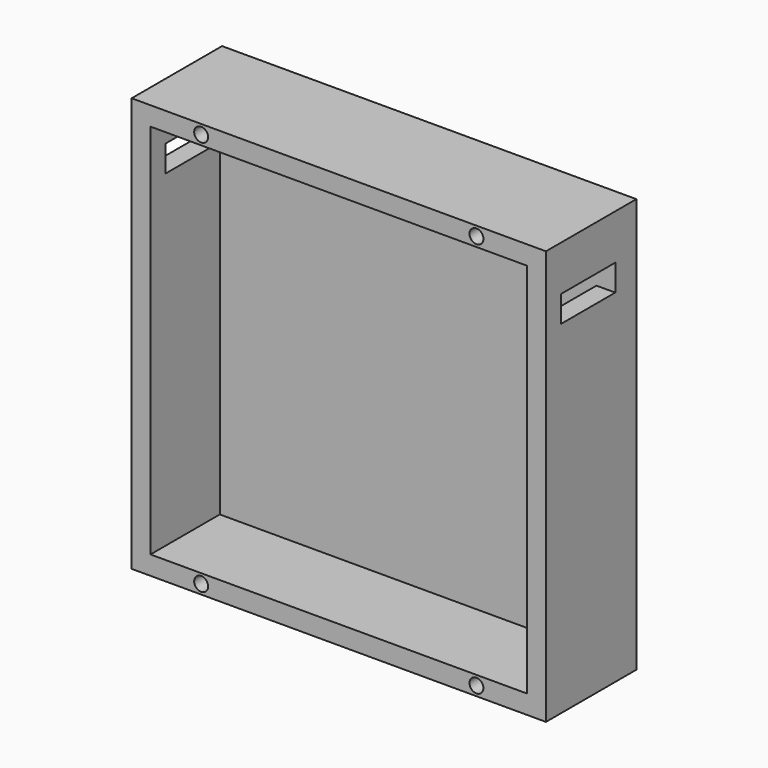
from build123d import *

# Parameters (mm, degrees)
F0_W     = 110
F0_H     = 110
F1_DEPTH = 30
F2_W     = 100
F2_H     = 100
F3_DEPTH = 23
F4_W     = 18
F4_H     = 7
F5_DEPTH = 10
F6_W     = 18
F6_H     = 7
F7_DEPTH = 10
F8_R     = 1.85
F9_DEPTH = 7


with BuildPart() as f1:
    # F0 (on Front) → F1 (new body)
    with BuildSketch(Plane.XZ):
        Rectangle(F0_W, F0_H)
    extrude(amount=F1_DEPTH)

    # F2 (on face) → F3 (cut)
    with BuildSketch(Plane.XZ.offset(30)):
        Rectangle(F2_W, F2_H)
    extrude(amount=-F3_DEPTH, mode=Mode.SUBTRACT)

    # F4 (on face) → F5 (cut)
    with BuildSketch(Plane.YZ.offset(55)):
        with Locations((-16, 39.5)):
            Rectangle(F4_W, F4_H)
    extrude(amount=-F5_DEPTH, mode=Mode.SUBTRACT)

    # F6 (on face) → F7 (cut)
    with BuildSketch(Plane(origin=(-55, 0, 0), x_dir=(0, -1, 0), z_dir=(-1, 0, 0))):
        with Locations((16, 40.5)):
            Rectangle(F6_W, F6_H)
    extrude(amount=-F7_DEPTH, mode=Mode.SUBTRACT)

    # F8 (on face) → F9 (cut)
    with BuildSketch(Plane.XZ.offset(30)):
        with Locations((-36.546465, 52.5)):
            Circle(F8_R)
        with Locations((36.546465, 52.5)):
            Circle(F8_R)
        with Locations((-36.546465, -52.5)):
            Circle(F8_R)
        with Locations((36.546465, -52.5)):
            Circle(F8_R)
    extrude(amount=-F9_DEPTH, mode=Mode.SUBTRACT)


solid = f1.part
